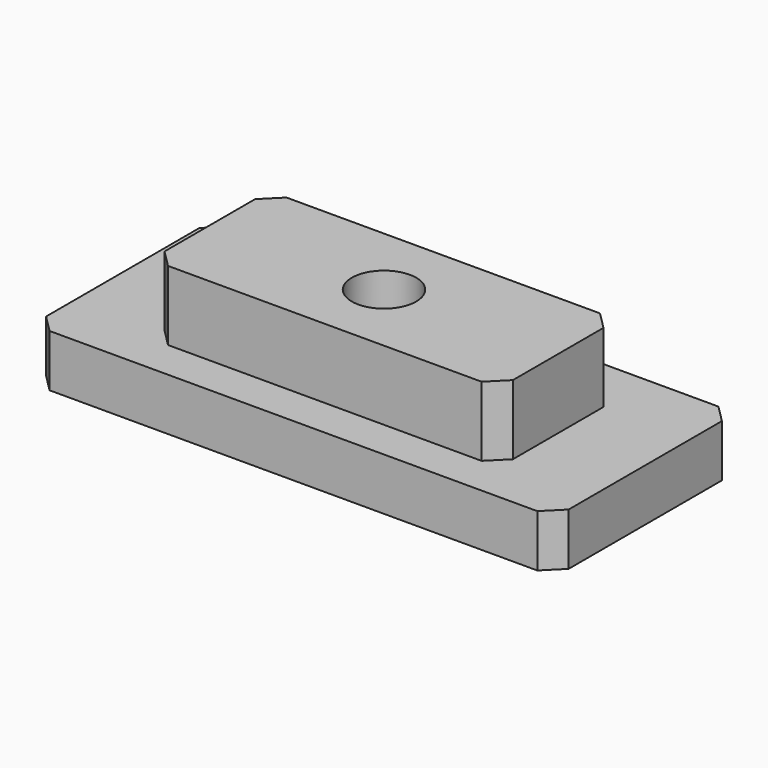
from build123d import *

# Parameters (mm, degrees)
F0_W     = 30
F0_H     = 13
F0_W_2   = 20
F0_H_2   = 8.5
F1_DEPTH = 3
F0_R     = 1.85
F2_DEPTH = 7
F3_SIZE  = 1


with BuildPart() as f1:
    # F0 (on Top) → F1 (new body)
    with BuildSketch(Plane.XY):
        Rectangle(F0_W, F0_H)
        Rectangle(F0_W_2, F0_H_2, mode=Mode.SUBTRACT)
    extrude(amount=F1_DEPTH)

    # F0 (on Top) → F2 (join)
    with BuildSketch(Plane.XY):
        Rectangle(F0_W_2, F0_H_2)
        Circle(F0_R, mode=Mode.SUBTRACT)
    extrude(amount=F2_DEPTH)

    # F3
    f3_edges = [f1.edges().sort_by_distance(p)[0] for p in [
        (-10, -4.25, 5),
        (10, -4.25, 5),
        (10, 4.25, 5),
        (-10, 4.25, 5),
        (-15, 6.5, 1.5),
        (15, 6.5, 1.5),
        (15, -6.5, 1.5),
        (-15, -6.5, 1.5),
    ]]
    chamfer(f3_edges, length=F3_SIZE)


solid = f1.part
